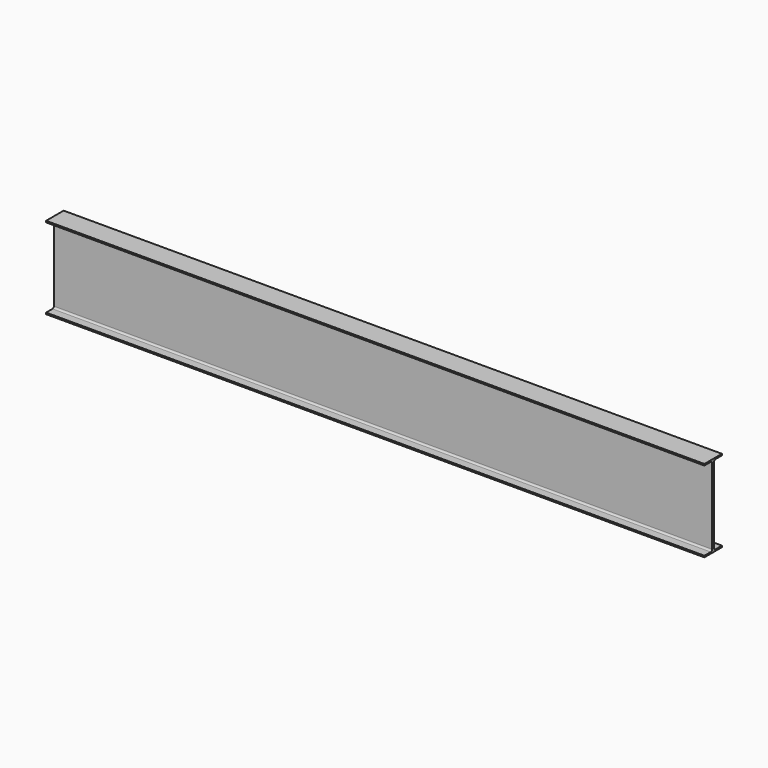
from build123d import *

# Parameters (mm, degrees)
F1_DEPTH = 3048


with BuildPart() as f1:
    # F0 (on Right) → F1 (new body)
    with BuildSketch(Plane.YZ):
        with BuildLine():
            Line((-5.842, 175.7299), (-5.842, 0))
            Line((-5.842, 0), (-5.842, -175.7299))
            ThreePointArc((-5.842, -175.7299), (-8.16684, -181.34256), (-13.7795, -183.6674))
            Line((-13.7795, -183.6674), (-50.8, -183.6674))
            Line((-50.8, -183.6674), (-50.8, -190.5))
            Line((-50.8, -190.5), (0, -190.5))
            Line((0, -190.5), (50.8, -190.5))
            Line((50.8, -190.5), (50.8, -183.6674))
            Line((50.8, -183.6674), (13.7795, -183.6674))
            ThreePointArc((13.7795, -183.6674), (8.16684, -181.34256), (5.842, -175.7299))
            Line((5.842, -175.7299), (5.842, 0))
            Line((5.842, 0), (5.842, 175.7299))
            ThreePointArc((5.842, 175.7299), (8.16684, 181.34256), (13.7795, 183.6674))
            Line((13.7795, 183.6674), (50.8, 183.6674))
            Line((50.8, 183.6674), (50.8, 190.5))
            Line((50.8, 190.5), (0, 190.5))
            Line((0, 190.5), (-50.8, 190.5))
            Line((-50.8, 190.5), (-50.8, 183.6674))
            Line((-50.8, 183.6674), (-13.7795, 183.6674))
            ThreePointArc((-13.7795, 183.6674), (-8.16684, 181.34256), (-5.842, 175.7299))
        make_face()
    extrude(amount=F1_DEPTH)


solid = f1.part
